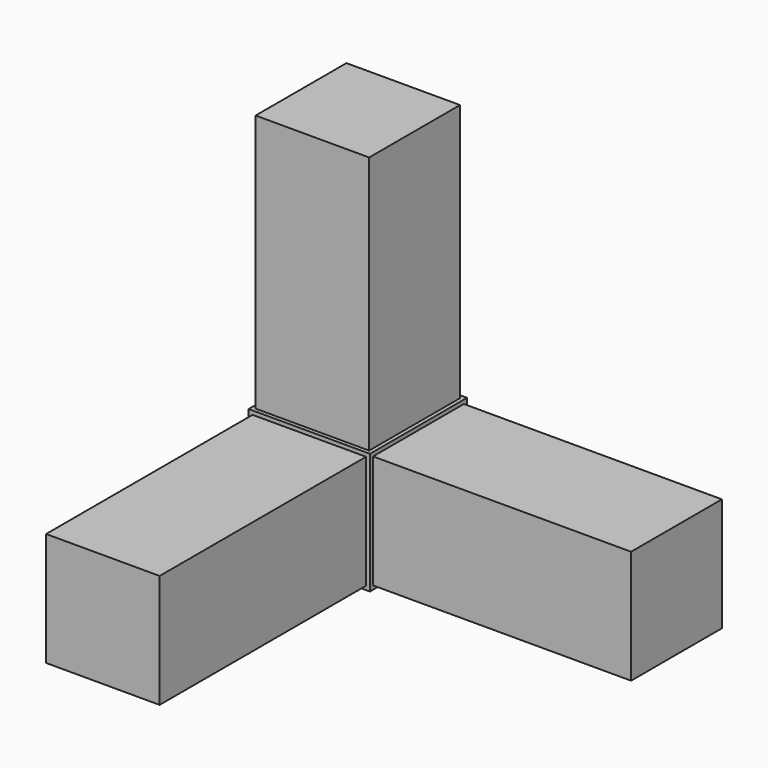
from build123d import *

# Parameters (mm, degrees)
F0_W     = 23.5
F0_H     = 23.5
F1_DEPTH = 11.75
F2_W     = 22
F2_H     = 22
F3_DEPTH = 50
F4_W     = 22
F4_H     = 22
F5_DEPTH = 50
F6_W     = 22
F6_H     = 22
F7_DEPTH = 50


with BuildPart() as f1:
    # F0 (on Front) → F1 (new body, symmetric)
    with BuildSketch(Plane.XZ):
        Rectangle(F0_W, F0_H)
    extrude(amount=F1_DEPTH, both=True)

    # F2 (on face) → F3 (join)
    with BuildSketch(Plane.XZ.offset(11.75)):
        Rectangle(F2_W, F2_H)
    extrude(amount=F3_DEPTH)

    # F4 (on face) → F5 (join)
    with BuildSketch(Plane.XY.offset(11.75)):
        Rectangle(F4_W, F4_H)
    extrude(amount=F5_DEPTH)

    # F6 (on face) → F7 (join)
    with BuildSketch(Plane.YZ.offset(11.75)):
        Rectangle(F6_W, F6_H)
    extrude(amount=F7_DEPTH)


solid = f1.part
